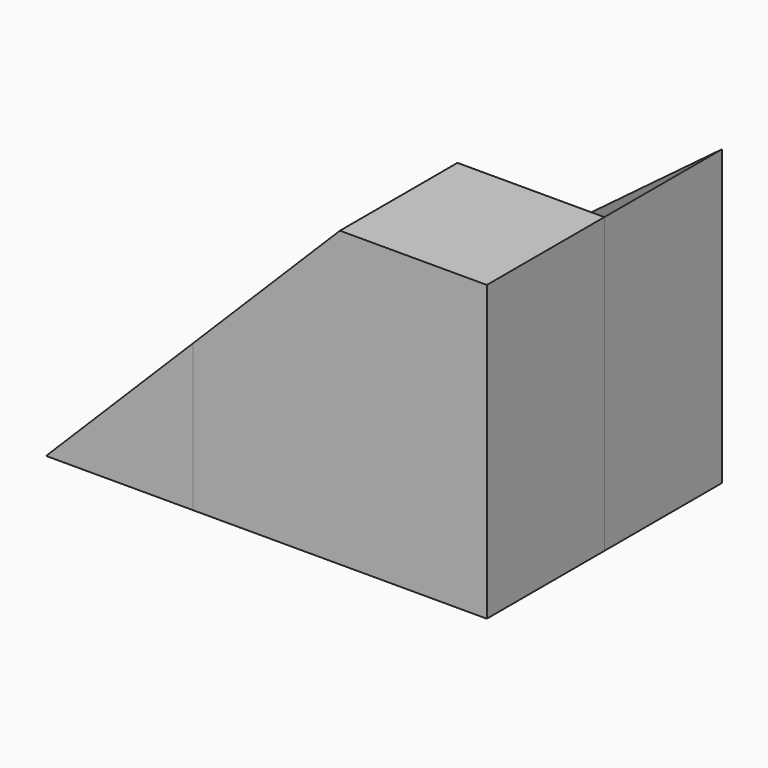
from build123d import *

# Parameters (mm, degrees)
F1_DEPTH  = 25.4
F3_DEPTH  = 25.4
F5_DEPTH  = 25.4
F7_DEPTH  = 25.4
F9_DEPTH  = 25.4
F11_DEPTH = 25.4


with BuildPart() as f1:
    # F0 (on Front) → F1 (new body)
    with BuildSketch(Plane.XZ):
        Polygon((0, -50.8), (0, 0), (-25.4, 0), (-50.8, -25.4), (-50.8, -50.8), align=None)
    extrude(amount=F1_DEPTH)



with BuildPart() as f3:
    # F2 (on face) → F3 (new body)
    with BuildSketch(Plane.XZ.offset(25.4)):
        Polygon((-76.2, -50.8), (-50.8, -50.8), (-50.8, -38.1), align=None)
    extrude(amount=F3_DEPTH)


with BuildPart() as f1_1:
    add(f1.part)

    add(f3.part)  # F5 merges F3
    # F4 (on face) → F5 (join)
    with BuildSketch(Plane.XZ.offset(25.4)):
        Polygon((-76.2, -50.8), (-50.8, -38.1), (-50.8, -25.4), align=None)
    extrude(amount=F5_DEPTH)

    # F10 (on face) → F11 (cut)
    with BuildSketch(Plane(origin=(0, 0, 0), x_dir=(-1, 0, 0), z_dir=(0, 1, 0))):
        Polygon((0, 0), (50.8, -38.1), (50.8, -25.4), (25.4, 0), align=None)
    extrude(amount=-F11_DEPTH, mode=Mode.SUBTRACT)


with BuildPart() as f7:
    # F6 (on face) → F7 (new body)
    with BuildSketch(Plane.XZ.offset(25.4)):
        Polygon((-25.4, 0), (-50.8, -25.4), (-50.8, -50.8), (0, -50.8), (0, 0), align=None)
    extrude(amount=F7_DEPTH)


with BuildPart() as f9:
    # F8 (on face) → F9 (new body)
    with BuildSketch(Plane(origin=(0, 0, 0), x_dir=(-1, 0, 0), z_dir=(0, 1, 0))):
        Polygon((76.0328620672, -50.8), (50.8, -38.1), (50.8, -50.8), align=None)
    extrude(amount=-F9_DEPTH)


solid = Compound([f1_1.part, f7.part, f9.part])
